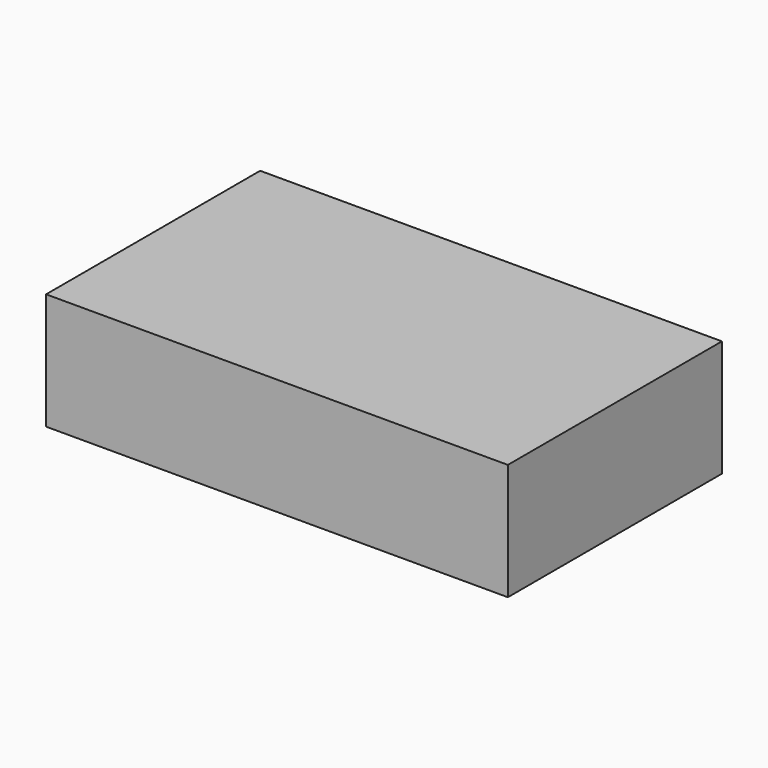
from build123d import *

# Parameters (mm, degrees)
BOX004_W     = 210
BOX004_H     = 120
BOX004_DEPTH = 50
BOX008_W     = 214
BOX008_H     = 124
BOX008_DEPTH = 54


with BuildPart() as box004:
    # Box004 → Box004 (new body)
    with BuildSketch(Plane(origin=(-20, -62, 0), x_dir=(1, 0, 0), z_dir=(0, 0, 1))):
        with Locations((105, 60)):
            Rectangle(BOX004_W, BOX004_H)
    extrude(amount=BOX004_DEPTH)


with BuildPart() as cut001:
    # Box008 → Box008 (new body)
    with BuildSketch(Plane(origin=(-22, -64, -2), x_dir=(1, 0, 0), z_dir=(0, 0, 1))):
        with Locations((107, 62)):
            Rectangle(BOX008_W, BOX008_H)
    extrude(amount=BOX008_DEPTH)

    # Cut001: cut Box004
    add(box004.part, mode=Mode.SUBTRACT)


solid = cut001.part
